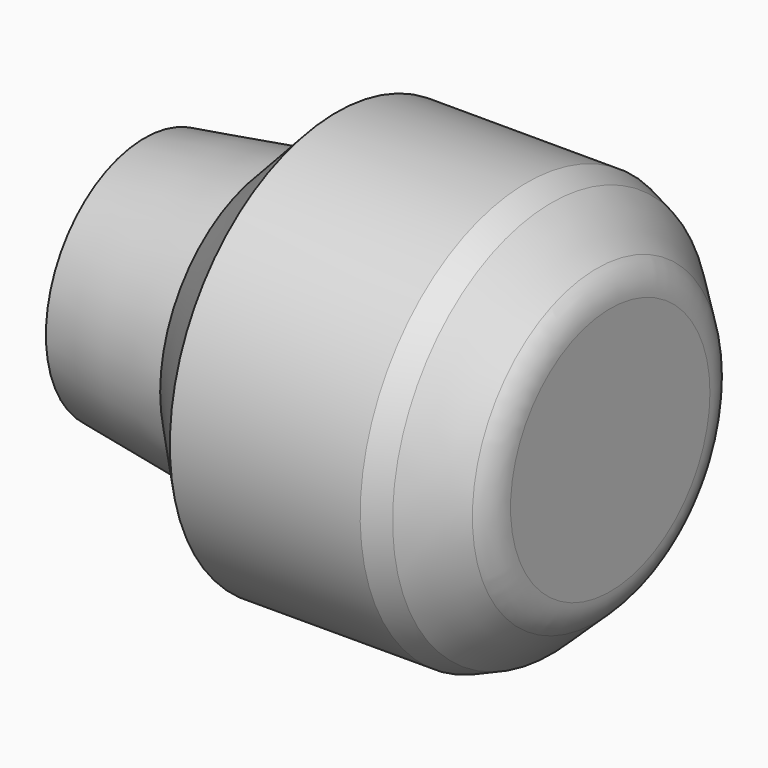
from build123d import *

# Parameters (mm, degrees)
F2_SIZE = 5.08
F3_R    = 15.24


with BuildPart() as f1:
    # F0 (on Top) → F1 (revolve)
    with BuildSketch(Plane.XY):
        Polygon((-46.351972, 43.938525), (0, 0), (0, 50.97072), align=None)
        Polygon((0, 50.97072), (0, 0), (119.629055, 0), (119.629055, 50.97072), (95.021219, 74.297279), (22.111996, 74.297279), align=None)
    revolve(axis=Axis((59.814528, 0, 0), (-1, 0, 0)))

    # F2
    f2_edges = [f1.edges().sort_by_distance(p)[0] for p in [
        (95.021219, -74.297279, 0),
    ]]
    chamfer(f2_edges, length=F2_SIZE)

    # F3
    f3_edges = [f1.edges().sort_by_distance(p)[0] for p in [
        (119.629055, -50.97072, 0),
    ]]
    fillet(f3_edges, radius=F3_R)


solid = f1.part
